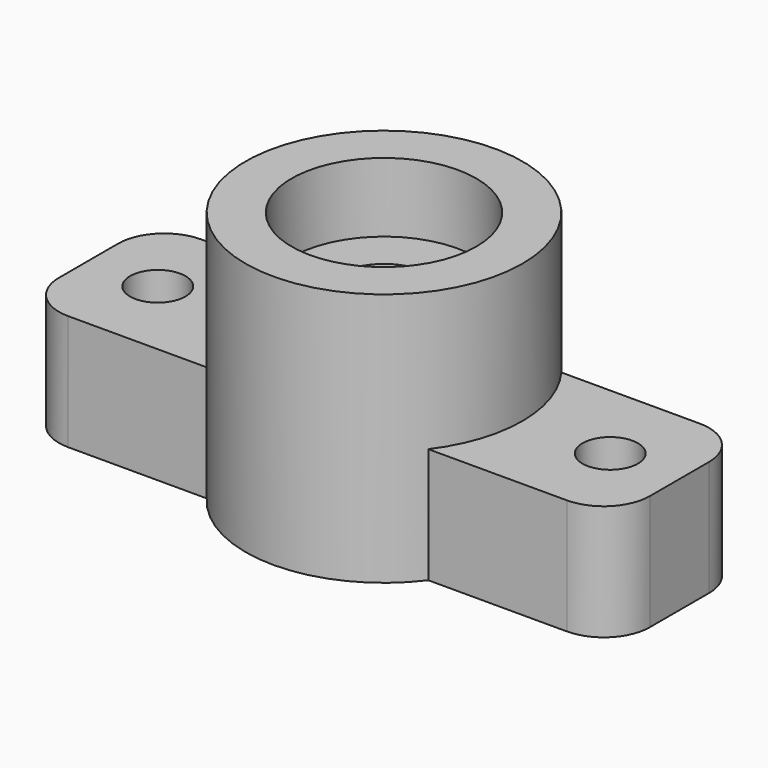
from build123d import *

# Parameters (mm, degrees)
F1_R      = 300
F2_DEPTH  = 550
F3_R      = 200
F4_DEPTH  = 150
F5_R      = 100
F6_DEPTH  = 400.001
F8_DEPTH  = 250
F10_DEPTH = 250
F12_DEPTH = 250.001
F13_R     = 60
F14_DEPTH = 250.001


with BuildPart() as f2:
    # F1 (on Top) → F2 (new body)
    with BuildSketch(Plane.XY):
        Circle(F1_R)
    extrude(amount=F2_DEPTH)

    # F3 (on face) → F4 (cut)
    with BuildSketch(Plane.XY.offset(550)):
        Circle(F3_R)
    extrude(amount=-F4_DEPTH, mode=Mode.SUBTRACT)

    # F5 (on face) → F6 (cut, through all)
    with BuildSketch(Plane.XY.offset(400)):
        Circle(F5_R)
    extrude(amount=-F6_DEPTH, mode=Mode.SUBTRACT)

    # F7 (on face) → F8 (join)
    with BuildSketch(Plane(origin=(0, 0, 0), x_dir=(1, 0, 0), z_dir=(0, 0, -1))):
        with BuildLine():
            Line((-240, -180), (-240, 180))
            Line((-240, 180), (-540, 180))
            ThreePointArc((-540, 180), (-610.710678, 150.710678), (-640, 80))
            Line((-640, 80), (-640, -80))
            ThreePointArc((-640, -80), (-610.710678, -150.710678), (-540, -180))
            Line((-540, -180), (-240, -180))
        make_face()
    extrude(amount=-F8_DEPTH)

    # F9 (on face) → F10 (join)
    with BuildSketch(Plane(origin=(0, 0, 0), x_dir=(1, 0, 0), z_dir=(0, 0, -1))):
        with BuildLine():
            Line((540, 180), (240, 180))
            Line((240, 180), (240, -180))
            Line((240, -180), (540, -180))
            ThreePointArc((540, -180), (610.710678, -150.710678), (640, -80))
            Line((640, -80), (640, 80))
            ThreePointArc((640, 80), (610.710678, 150.710678), (540, 180))
        make_face()
    extrude(amount=-F10_DEPTH)

    # F11 (on face) → F12 (cut, through all)
    with BuildSketch(Plane.XY.offset(250)):
        with BuildLine():
            Line((430, 0), (550, 0))
            ThreePointArc((550, 0), (490, 60), (430, 0))
        make_face()
        with BuildLine():
            ThreePointArc((430, 0), (490, -60), (550, 0))
            Line((550, 0), (430, 0))
        make_face()
    extrude(amount=-F12_DEPTH, mode=Mode.SUBTRACT)

    # F13 (on face) → F14 (cut, through all)
    with BuildSketch(Plane.XY.offset(250)):
        with Locations((-490, 0)):
            Circle(F13_R)
    extrude(amount=-F14_DEPTH, mode=Mode.SUBTRACT)


solid = f2.part
